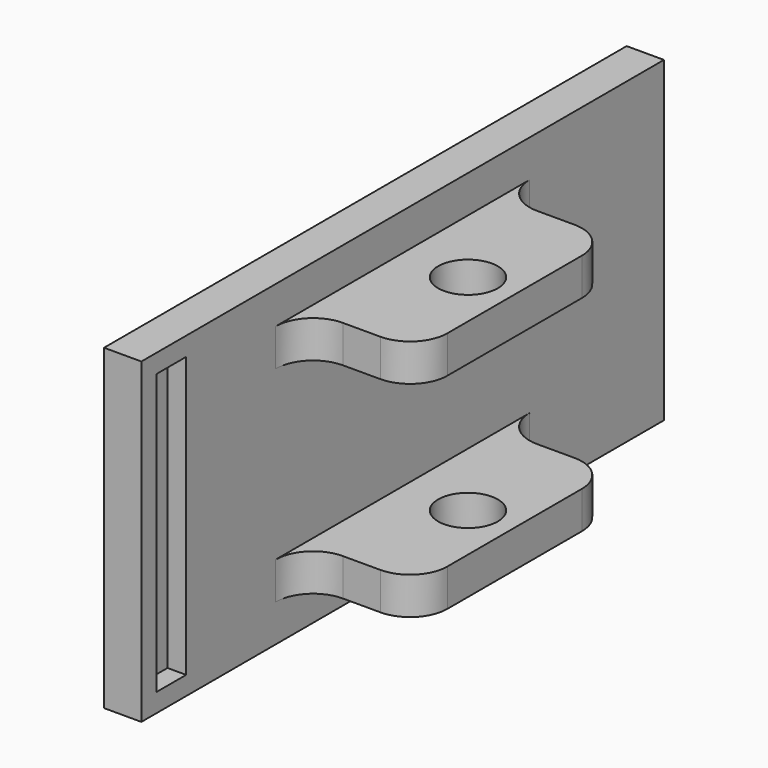
from build123d import *

# Parameters (mm, degrees)
F0_W     = 35
F0_H     = 17
F1_DEPTH = 2
F2_W     = 2
F2_H     = 13
F2_H_2   = 1
F3_DEPTH = 1
F4_W     = 13
F4_H     = 2
F5_DEPTH = 6
F7_D     = 3.2
F8_R     = 2


with BuildPart() as f1:
    # F0 (on Right) → F1 (new body)
    with BuildSketch(Plane.YZ):
        Rectangle(F0_W, F0_H)
    extrude(amount=F1_DEPTH)

    # F2 (on face) → F3 (cut)
    with BuildSketch(Plane.YZ.offset(2)):
        with Locations((-15.5, 0)):
            Rectangle(F2_W, F2_H)
        with Locations((-15.5, 7)):
            Rectangle(F2_W, F2_H_2)
        with Locations((-15.5, -7)):
            Rectangle(F2_W, F2_H_2)
    extrude(amount=-F3_DEPTH, mode=Mode.SUBTRACT)

    # F4 (on face) → F5 (join)
    with BuildSketch(Plane.YZ.offset(2)):
        with Locations((0, 5.5)):
            Rectangle(F4_W, F4_H)
        with Locations((0, -5.5)):
            Rectangle(F4_W, F4_H)
    extrude(amount=F5_DEPTH)

    # F7 (through all)
    with Locations(Plane.XY.offset(6.5)):
        with Locations((5.5, 0)):
            Hole(F7_D / 2)

    # F8
    f8_edges = [f1.edges().sort_by_distance(p)[0] for p in [
        (2, 6.5, 5.5),
        (8, 6.5, 5.5),
        (8, 6.5, -5.5),
        (2, 6.5, -5.5),
        (2, -6.5, -5.5),
        (8, -6.5, -5.5),
        (2, -6.5, 5.5),
        (8, -6.5, 5.5),
    ]]
    fillet(f8_edges, radius=F8_R)


solid = f1.part
